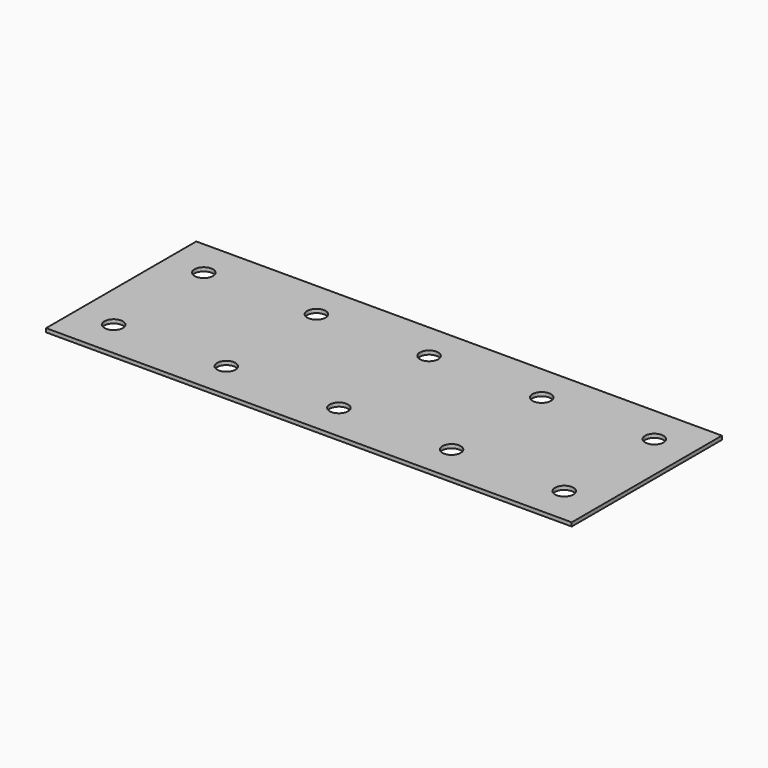
from build123d import *

# Parameters (mm, degrees)
F1_W     = 350
F1_H     = 125
F1_R     = 6.125
F2_DEPTH = 2.5


with BuildPart() as f2:
    # F1 (on face) → F2 (new body)
    with BuildSketch(Plane.XY):
        Rectangle(F1_W, F1_H)
        with Locations((-150, -37.5)):
            Circle(F1_R, mode=Mode.SUBTRACT)
        with Locations((-75, -37.5)):
            Circle(F1_R, mode=Mode.SUBTRACT)
        with Locations((0, -37.5)):
            Circle(F1_R, mode=Mode.SUBTRACT)
        with Locations((75, -37.5)):
            Circle(F1_R, mode=Mode.SUBTRACT)
        with Locations((150, -37.5)):
            Circle(F1_R, mode=Mode.SUBTRACT)
        with Locations((-150, 37.5)):
            Circle(F1_R, mode=Mode.SUBTRACT)
        with Locations((-75, 37.5)):
            Circle(F1_R, mode=Mode.SUBTRACT)
        with Locations((0, 37.5)):
            Circle(F1_R, mode=Mode.SUBTRACT)
        with Locations((75, 37.5)):
            Circle(F1_R, mode=Mode.SUBTRACT)
        with Locations((150, 37.5)):
            Circle(F1_R, mode=Mode.SUBTRACT)
    extrude(amount=F2_DEPTH)


solid = f2.part
